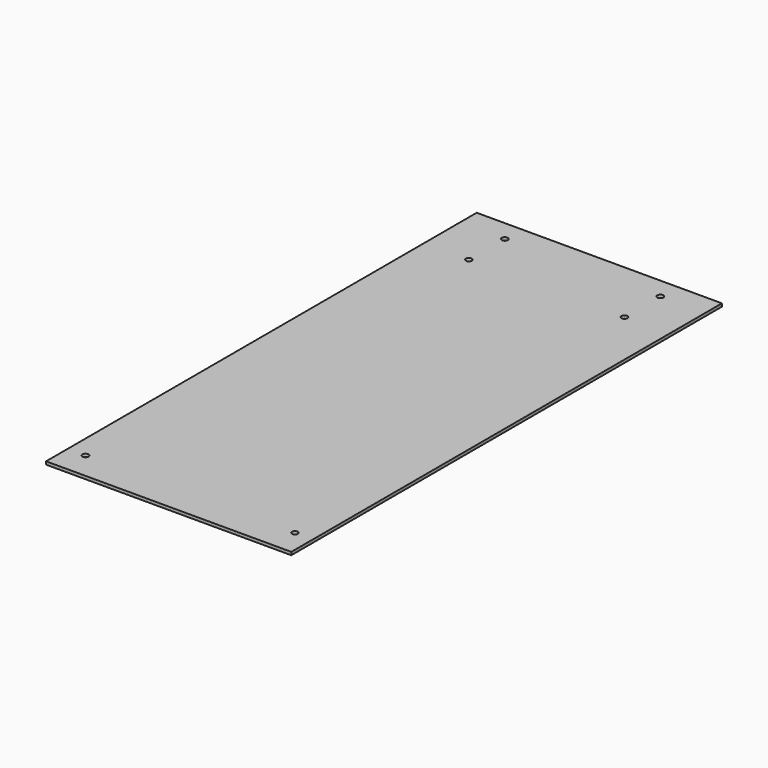
from build123d import *

# Parameters (mm, degrees)
SKETCH001_W   = 82
SKETCH001_H   = 180
SKETCH001_R   = 1.010447
SKETCH001_R_2 = 1.026283
SKETCH001_R_3 = 0.999289
SKETCH001_R_4 = 1.022359
SKETCH001_R_5 = 1.026365
SKETCH001_R_6 = 0.97078
PAD_DEPTH     = 1


with BuildPart() as part:
    # Sketch001 → Pad (new body)
    with BuildSketch(Plane.XY):
        with Locations((51.096668, -118.990048)):
            Rectangle(SKETCH001_W, SKETCH001_H)
        with Locations((77.096668, -50.990048)):
            Circle(SKETCH001_R, mode=Mode.SUBTRACT)
        with Locations((77.096668, -35.990048)):
            Circle(SKETCH001_R_2, mode=Mode.SUBTRACT)
        with Locations((25.096668, -50.990048)):
            Circle(SKETCH001_R_3, mode=Mode.SUBTRACT)
        with Locations((25.096668, -35.990048)):
            Circle(SKETCH001_R_4, mode=Mode.SUBTRACT)
        with Locations((16.096668, -199.990048)):
            Circle(SKETCH001_R_5, mode=Mode.SUBTRACT)
        with Locations((86.096668, -199.990048)):
            Circle(SKETCH001_R_6, mode=Mode.SUBTRACT)
    extrude(amount=PAD_DEPTH)


solid = part.part
